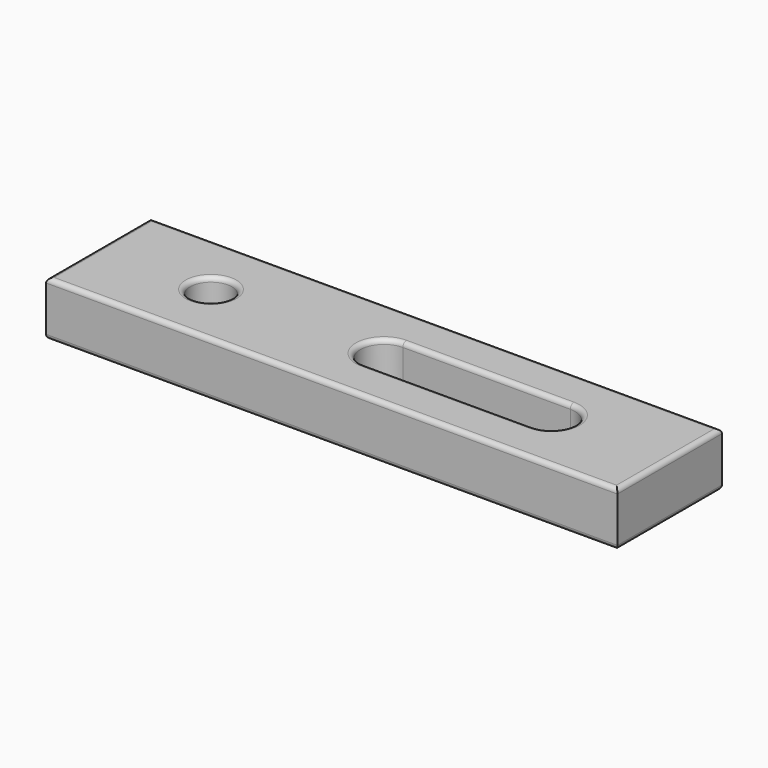
from build123d import *

# Parameters (mm, degrees)
F0_W     = 126.65081
F0_H     = 28.956786
F0_R     = 4.613754
F1_DEPTH = 12
F2_R     = 1
F3_R     = 1
F4_R     = 1


with BuildPart() as f1:
    # F0 (on Top) → F1 (new body)
    with BuildSketch(Plane.XY):
        Rectangle(F0_W, F0_H)
        with Locations((-38.348339, 0)):
            Circle(F0_R, mode=Mode.SUBTRACT)
        with BuildLine():
            ThreePointArc((0, -5.238965), (-5.238965, 0), (0, 5.238965))
            Line((0, 5.238965), (37.103504, 5.238965))
            ThreePointArc((37.103504, 5.238965), (42.342469, 0), (37.103504, -5.238965))
            Line((37.103504, -5.238965), (0, -5.238965))
        make_face(mode=Mode.SUBTRACT)
    extrude(amount=F1_DEPTH)

    # F2
    f2_edges = [f1.edges().sort_by_distance(p)[0] for p in [
        (-42.962094, 0, 12),
        (42.342469, 0, 12),
    ]]
    fillet(f2_edges, radius=F2_R)

    # F3
    f3_edges = [f1.edges().sort_by_distance(p)[0] for p in [
        (0, -14.478393, 0),
        (0, 14.478393, 0),
        (63.325405, 0, 0),
        (-63.325405, 0, 0),
    ]]
    fillet(f3_edges, radius=F3_R)

    # F4
    f4_edges = [f1.edges().sort_by_distance(p)[0] for p in [
        (0, -14.478393, 12),
        (63.325405, 0, 12),
        (0, 14.478393, 12),
        (-63.325405, 0, 12),
    ]]
    fillet(f4_edges, radius=F4_R)


solid = f1.part
